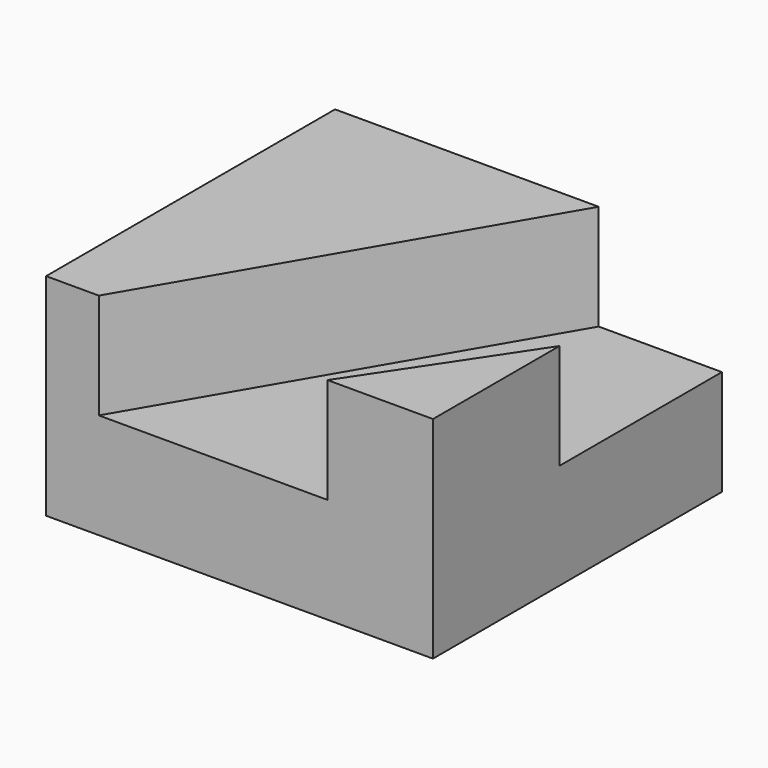
from build123d import *

# Parameters (mm, degrees)
F0_W     = 93.172208
F0_H     = 86.981416
F1_DEPTH = 25.4
F3_DEPTH = 25.4


with BuildPart() as f1:
    # F0 (on Top) → F1 (new body)
    with BuildSketch(Plane.XY):
        with Locations((-5.105678, 3.088344)):
            Rectangle(F0_W, F0_H)
    extrude(amount=F1_DEPTH)

    # F2 (on face) → F3 (join)
    with BuildSketch(Plane.XY.offset(25.4)):
        Polygon((41.480426, -2.302364), (16.080426, -40.402364), (41.480426, -40.402364), align=None)
        Polygon((-51.691782, -40.402364), (-38.991782, -40.402364), (11.808218, 46.579052), (-51.691782, 46.579052), align=None)
    extrude(amount=F3_DEPTH)


solid = f1.part
